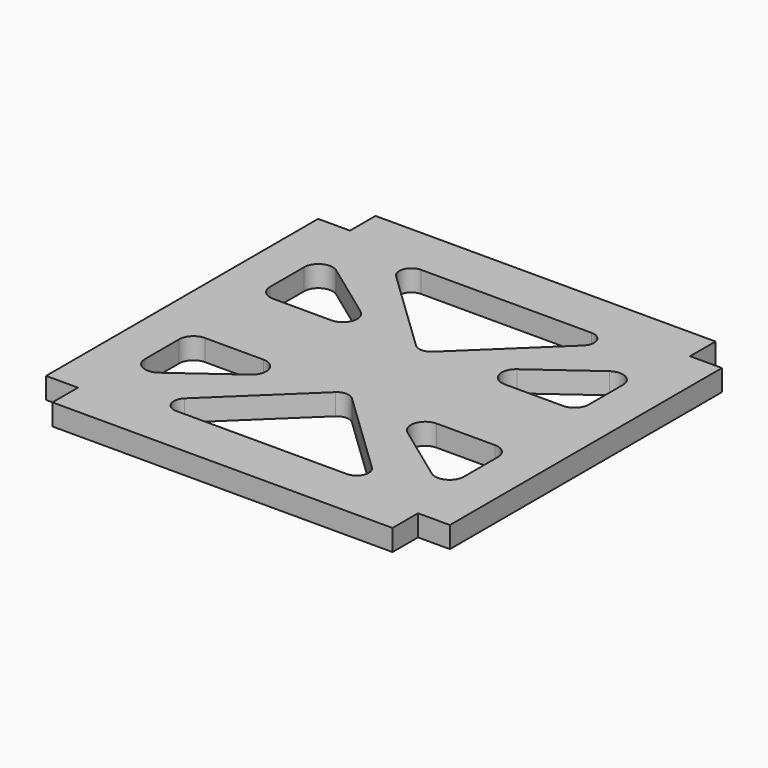
from build123d import *

# Parameters (mm, degrees)
F1_DEPTH = 5
F2_R     = 2.839641
F3_R     = 3.37981


with BuildPart() as f1:
    # F0 (on Top) → F1 (new body)
    with BuildSketch(Plane.XY):
        Polygon((-40, -47.5), (40, -47.5), (40, -40), (47.5, -40), (47.5, 40), (40, 40), (40, 47.5), (-40, 47.5), (-40, 40), (-47.5, 40), (-47.5, -40), (-40, -40), align=None)
        Polygon((-37.5, -30), (-37.5, -10), (-10, -10), align=None, mode=Mode.SUBTRACT)
        Polygon((0, -10), (27.139446, -35.976308), (-27.139446, -35.976308), align=None, mode=Mode.SUBTRACT)
        Polygon((37.5, -30), (10, -10), (37.5, -10), align=None, mode=Mode.SUBTRACT)
        Polygon((-10, 10), (-37.5, 10), (-37.5, 30), align=None, mode=Mode.SUBTRACT)
        Polygon((0, 10), (-27.139446, 35.976308), (27.139446, 35.976308), align=None, mode=Mode.SUBTRACT)
        Polygon((37.5, 10), (10, 10), (37.5, 30), align=None, mode=Mode.SUBTRACT)
    extrude(amount=F1_DEPTH)

    # F2
    f2_edges = [f1.edges().sort_by_distance(p)[0] for p in [
        (27.139446, 35.976308, 2.5),
        (-27.139446, 35.976308, 2.5),
        (0, 10, 2.5),
        (0, -10, 2.5),
        (-27.139446, -35.976308, 2.5),
        (27.139446, -35.976308, 2.5),
    ]]
    fillet(f2_edges, radius=F2_R)

    # F3
    f3_edges = [f1.edges().sort_by_distance(p)[0] for p in [
        (37.5, 30, 2.5),
        (37.5, 10, 2.5),
        (10, -10, 2.5),
        (-37.5, -10, 2.5),
        (-10, -10, 2.5),
        (37.5, -10, 2.5),
        (-37.5, 30, 2.5),
        (37.5, -30, 2.5),
        (-10, 10, 2.5),
        (-37.5, 10, 2.5),
        (-37.5, -30, 2.5),
        (10, 10, 2.5),
    ]]
    fillet(f3_edges, radius=F3_R)


solid = f1.part
